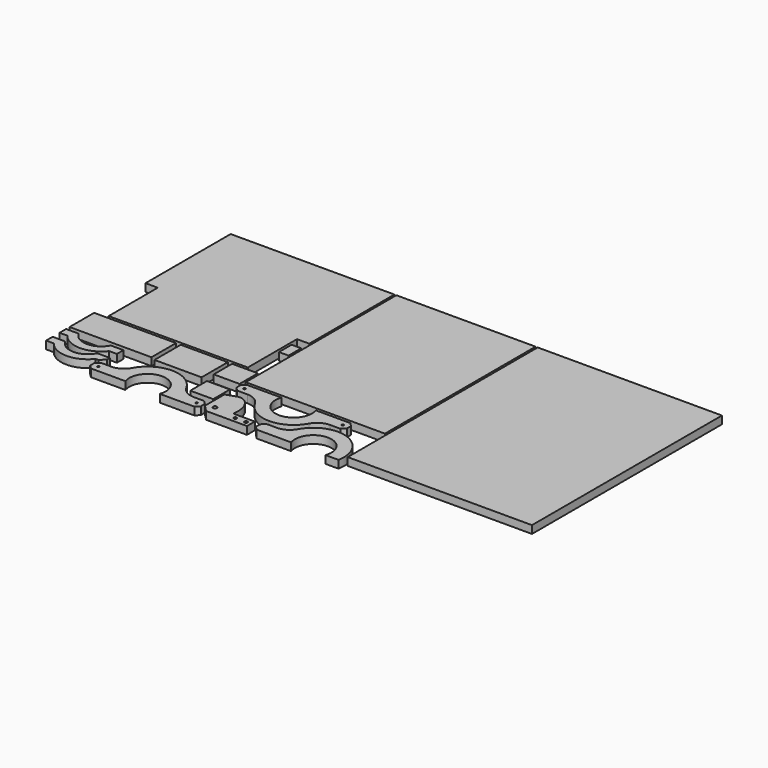
from build123d import *

# Parameters (mm, degrees)
F2_DEPTH = 19
F0_W     = 340
F0_H     = 460
F0_W_2   = 450
F0_H_2   = 580
F1_W     = 200
F1_H     = 75
F1_W_2   = 115
F1_H_2   = 80
F1_W_3   = 63
F1_H_3   = 56
F1_W_4   = 23.5513094543
F1_H_4   = 38.6460761462
F1_R     = 2.5
F1_W_5   = 56
F1_H_5   = 51
F1_R_2   = 4.7978778686
F1_R_3   = 3.6737575136


with BuildPart() as f2:
    # F0 (on Top) → F2 (new body)
    with BuildSketch(Plane.XY):
        Polygon((-600, 300), (-600, 40), (-570, 40), (-570, -110), (-230, -110), (-230, 40), (-200, 40), (-200, 300), align=None)
    extrude(amount=F2_DEPTH)


with BuildPart() as f2b:
    # F0 (on Top) → F2, piece 2 (new body)
    with BuildSketch(Plane.XY):
        with Locations((-25.219039917, 70)):
            Rectangle(F0_W, F0_H)
    extrude(amount=F2_DEPTH)


with BuildPart() as f2c:
    # F0 (on Top) → F2, piece 3 (new body)
    with BuildSketch(Plane.XY):
        with Locations((375, 10)):
            Rectangle(F0_W_2, F0_H_2)
    extrude(amount=F2_DEPTH)


with BuildPart() as f2d:
    # F1 (on Top) → F2, piece 4 (new body)
    with BuildSketch(Plane.XY):
        with Locations((-500, -154.3677505483)):
            Rectangle(F1_W, F1_H)
    extrude(amount=F2_DEPTH)


with BuildPart() as f2e:
    # F1 (on Top) → F2, piece 5 (new body)
    with BuildSketch(Plane.XY):
        with Locations((-331.0229089997, -156.8677505483)):
            Rectangle(F1_W_2, F1_H_2)
    extrude(amount=F2_DEPTH)


with BuildPart() as f2f:
    # F1 (on Top) → F2, piece 6 (new body)
    with BuildSketch(Plane.XY):
        with Locations((-231.5, -144.8677505483)):
            Rectangle(F1_W_3, F1_H_3)
    extrude(amount=F2_DEPTH)


with BuildPart() as f2g:
    # F1 (on Top) → F2, piece 7 (new body)
    with BuildSketch(Plane.XY):
        with Locations((-211.7756547271, -3.8202817862)):
            Rectangle(F1_W_4, F1_H_4)
    extrude(amount=F2_DEPTH)


with BuildPart() as f2h:
    # F1 (on Top) → F2, piece 8 (new body)
    with BuildSketch(Plane.XY):
        with BuildLine():
            Line((-461.2132034356, -270), (-470, -278.7867965644))
            Line((-470, -278.7867965644), (-470, -291.2132034356))
            Line((-470, -291.2132034356), (-461.2132034356, -300))
            Line((-461.2132034356, -300), (-376.895703837, -300))
            ThreePointArc((-376.895703837, -300), (-335, -240.5), (-293.104296163, -300))
            Line((-293.104296163, -300), (-208.7867965644, -300))
            Line((-208.7867965644, -300), (-200, -291.2132034356))
            Line((-200, -291.2132034356), (-200, -278.7867965644))
            Line((-200, -278.7867965644), (-208.7867965644, -270))
            Line((-208.7867965644, -270), (-234, -270))
            ThreePointArc((-234, -270), (-254.4336726838, -264.3883490178), (-269.1352075937, -249.1275994493))
            ThreePointArc((-269.1352075937, -249.1275994493), (-296.6948439587, -220.5196539971), (-335, -210))
            ThreePointArc((-335, -210), (-373.3051560413, -220.5196539971), (-400.8647924063, -249.1275994493))
            ThreePointArc((-400.8647924063, -249.1275994493), (-415.5663273162, -264.3883490178), (-436, -270))
            Line((-436, -270), (-461.2132034356, -270))
        make_face()
        with Locations((-455, -285)):
            Circle(F1_R, mode=Mode.SUBTRACT)
        with Locations((-215, -285)):
            Circle(F1_R, mode=Mode.SUBTRACT)
    extrude(amount=F2_DEPTH)


with BuildPart() as f2i:
    # F1 (on Top) → F2, piece 9 (new body)
    with BuildSketch(Plane.XY):
        with Locations((-228, -227.8629653454)):
            Rectangle(F1_W_5, F1_H_5)
    extrude(amount=F2_DEPTH)


with BuildPart() as f2j:
    # F1 (on Top) → F2, piece 10 (new body)
    with BuildSketch(Plane.XY):
        with BuildLine():
            ThreePointArc((-490.8081641155, -202.3629653454), (-530, -226.3629653454), (-569.1918358845, -202.3629653454))
            Line((-569.1918358845, -202.3629653454), (-600, -202.3629653454))
            Line((-600, -202.3629653454), (-600, -222.3629653454))
            Line((-600, -222.3629653454), (-581.2347538298, -222.3629653454))
            ThreePointArc((-581.2347538298, -222.3629653454), (-530, -247.3629653454), (-478.7652461702, -222.3629653454))
            Line((-478.7652461702, -222.3629653454), (-460, -222.3629653454))
            Line((-460, -222.3629653454), (-460, -202.3629653454))
            Line((-460, -202.3629653454), (-490.8081641155, -202.3629653454))
        make_face()
    extrude(amount=F2_DEPTH)


with BuildPart() as f2k:
    # F1 (on Top) → F2, piece 11 (new body)
    with BuildSketch(Plane.XY):
        with BuildLine():
            ThreePointArc((-490.8081641155, -243.5665595531), (-530, -267.5665595531), (-569.1918358845, -243.5665595531))
            Line((-569.1918358845, -243.5665595531), (-600, -243.5665595531))
            Line((-600, -243.5665595531), (-600, -263.5665595531))
            Line((-600, -263.5665595531), (-581.2347538298, -263.5665595531))
            ThreePointArc((-581.2347538298, -263.5665595531), (-530, -288.5665595531), (-478.7652461702, -263.5665595531))
            Line((-478.7652461702, -263.5665595531), (-471.7193818092, -263.5665595531))
            Line((-471.7193818092, -263.5665595531), (-460, -251.8471777439))
            Line((-460, -251.8471777439), (-460, -243.5665595531))
            Line((-460, -243.5665595531), (-490.8081641155, -243.5665595531))
        make_face()
    extrude(amount=F2_DEPTH)


with BuildPart() as f2l:
    # F1 (on Top) → F2, piece 12 (new body)
    with BuildSketch(Plane.XY):
        with BuildLine():
            Line((65.9941635186, -197.3242174783), (74.780960083, -188.5374209139))
            Line((74.780960083, -188.5374209139), (74.780960083, -176.1110140427))
            Line((74.780960083, -176.1110140427), (65.9941635186, -167.3242174783))
            Line((65.9941635186, -167.3242174783), (-18.32333608, -167.3242174783))
            ThreePointArc((-18.32333608, -167.3242174783), (-60.219039917, -226.8242174783), (-102.114743754, -167.3242174783))
            Line((-102.114743754, -167.3242174783), (-186.4322433526, -167.3242174783))
            Line((-186.4322433526, -167.3242174783), (-195.219039917, -176.1110140427))
            Line((-195.219039917, -176.1110140427), (-195.219039917, -188.5374209139))
            Line((-195.219039917, -188.5374209139), (-186.4322433526, -197.3242174783))
            Line((-186.4322433526, -197.3242174783), (-161.219039917, -197.3242174783))
            ThreePointArc((-161.219039917, -197.3242174783), (-140.7853672332, -202.9358684605), (-126.0838323233, -218.196618029))
            ThreePointArc((-126.0838323233, -218.196618029), (-98.5241959583, -246.8045634812), (-60.219039917, -257.3242174783))
            ThreePointArc((-60.219039917, -257.3242174783), (-21.9138838757, -246.8045634812), (5.6457524894, -218.196618029))
            ThreePointArc((5.6457524894, -218.196618029), (20.3472873992, -202.9358684605), (40.780960083, -197.3242174783))
            Line((40.780960083, -197.3242174783), (65.9941635186, -197.3242174783))
        make_face()
        with Locations((-180.219039917, -182.3242174783)):
            Circle(F1_R, mode=Mode.SUBTRACT)
        with Locations((59.780960083, -182.3242174783)):
            Circle(F1_R, mode=Mode.SUBTRACT)
    extrude(amount=F2_DEPTH)


with BuildPart() as f2m:
    # F1 (on Top) → F2, piece 13 (new body)
    with BuildSketch(Plane.XY):
        with BuildLine():
            ThreePointArc((3.9161676767, -249.1275994493), (-10.7853672332, -264.3883490178), (-31.219039917, -270))
            Line((-31.219039917, -270), (-56.4322433526, -270))
            Line((-56.4322433526, -270), (-65.219039917, -278.7867965644))
            Line((-65.219039917, -278.7867965644), (-65.219039917, -291.2132034356))
            Line((-65.219039917, -291.2132034356), (-56.4322433526, -300))
            Line((-56.4322433526, -300), (27.885256246, -300))
            ThreePointArc((27.885256246, -300), (69.780960083, -240.5), (111.67666392, -300))
            Line((111.67666392, -300), (143.2656523665, -300))
            ThreePointArc((143.2656523665, -300), (95.5009134846, -214.5480021787), (3.9161676767, -249.1275994493))
        make_face()
    extrude(amount=F2_DEPTH)


with BuildPart() as f2n:
    # F1 (on Top) → F2, piece 14 (new body)
    with BuildSketch(Plane.XY):
        with BuildLine():
            Line((-195.219039917, -284.6167683601), (-179.8358082771, -300))
            Line((-179.8358082771, -300), (-80.219039917, -300))
            Line((-80.219039917, -300), (-80.219039917, -276))
            Line((-80.219039917, -276), (-133.0908532607, -276))
            add(Edge.make_bspline(
                [(-133.0908532607, -276), (-117.3498821546, -197.8978728169), (-172.7633978507, -217.1843810214)],
                knots=[4.432814907, 4.432814907, 4.432814907, 6.5228240339, 6.5228240339, 6.5228240339], degree=2, weights=[1, 0.5018979792, 1]))
            Line((-172.7633978507, -217.1843810214), (-195.219039917, -225))
            Line((-195.219039917, -225), (-195.219039917, -284.6167683601))
        make_face()
        with Locations((-176.0347038507, -277.7483165264)):
            Circle(F1_R_2, mode=Mode.SUBTRACT)
        with Locations((-118.219039917, -288)):
            Circle(F1_R_3, mode=Mode.SUBTRACT)
        with Locations((-92.219039917, -288)):
            Circle(F1_R_3, mode=Mode.SUBTRACT)
    extrude(amount=F2_DEPTH)


solid = Compound([f2.part, f2b.part, f2c.part, f2d.part, f2e.part, f2f.part, f2g.part, f2h.part, f2i.part, f2j.part, f2k.part, f2l.part, f2m.part, f2n.part])
